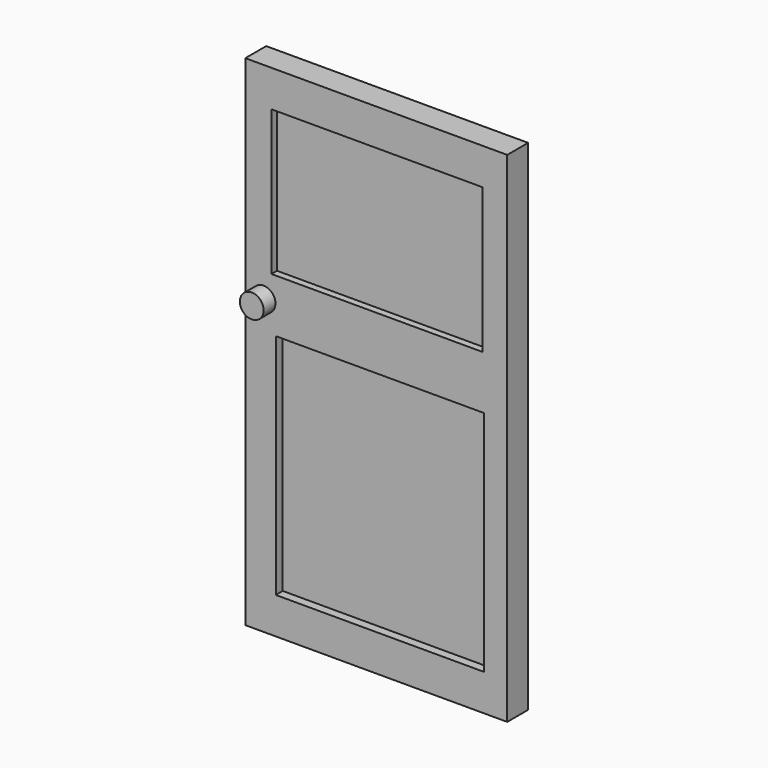
from build123d import *

# Parameters (mm, degrees)
F2_R      = 3.46564
F3_DEPTH  = 8.128
F1_W      = 76.412424
F1_H      = 145.629719
F1_W_2    = 61.590434
F1_H_2    = 42.307448
F4_DEPTH  = 3.81
F5_DEPTH  = 1.778
F6_W      = 60.727017
F6_H      = 66.483134
F7_DEPTH  = 2.54
F0_W      = 76.412424
F0_H      = 145.629719
F8_DEPTH  = 3.81
F10_W     = 62.741654
F10_H     = 41.73184
F11_DEPTH = 1.778
F13_DEPTH = 3.048
F14_R     = 3.947357
F15_DEPTH = 4.826


with BuildPart() as f3:
    # F2 (on face) → F3 (new body)
    with BuildSketch(Plane.XZ):
        with Locations((5.324407, 12.51955)):
            Circle(F2_R)
    extrude(amount=F3_DEPTH)

    # F1 (on face) → F4 (join)
    with BuildSketch(Plane.XZ):
        with Locations((38.206212, -0.143901)):
            Rectangle(F1_W, F1_H)
        with Locations((38.42207, 40.868418)):
            Rectangle(F1_W_2, F1_H_2, mode=Mode.SUBTRACT)
    extrude(amount=F4_DEPTH)

    # F1 (on face) → F5 (join)
    with BuildSketch(Plane.XZ):
        with Locations((38.42207, 40.868418)):
            Rectangle(F1_W_2, F1_H_2)
    extrude(amount=F5_DEPTH)

    # F6 (on face) → F7 (cut)
    with BuildSketch(Plane.XZ.offset(3.81)):
        with Locations((39.247795, -29.068384)):
            Rectangle(F6_W, F6_H)
    extrude(amount=-F7_DEPTH, mode=Mode.SUBTRACT)

    # F0 (on Front) → F8 (join)
    with BuildSketch(Plane.XZ):
        with Locations((38.206212, -0.143901)):
            Rectangle(F0_W, F0_H)
    extrude(amount=-F8_DEPTH)

    # F10 (on face) → F11 (cut)
    with BuildSketch(Plane(origin=(0, 3.81, 0), x_dir=(-1, 0, 0), z_dir=(0, 1, 0))):
        with Locations((-37.952668, 42.307449)):
            Rectangle(F10_W, F10_H)
    extrude(amount=-F11_DEPTH, mode=Mode.SUBTRACT)

    # F12 (on face) → F13 (cut)
    with BuildSketch(Plane(origin=(0, 3.81, 0), x_dir=(-1, 0, 0), z_dir=(0, 1, 0))):
        Polygon((-6.86057, 3.204095), (-68.471536, 3.204095), (-68.471536, -64.19491), (-6.86057, -64.19491), (-6.86057, -37.781585), align=None)
    extrude(amount=-F13_DEPTH, mode=Mode.SUBTRACT)

    # F14 (on face) → F15 (join)
    with BuildSketch(Plane(origin=(0, 3.81, 0), x_dir=(-1, 0, 0), z_dir=(0, 1, 0))):
        with Locations((-4.801393, 11.276569)):
            Circle(F14_R)
    extrude(amount=F15_DEPTH)


solid = f3.part
